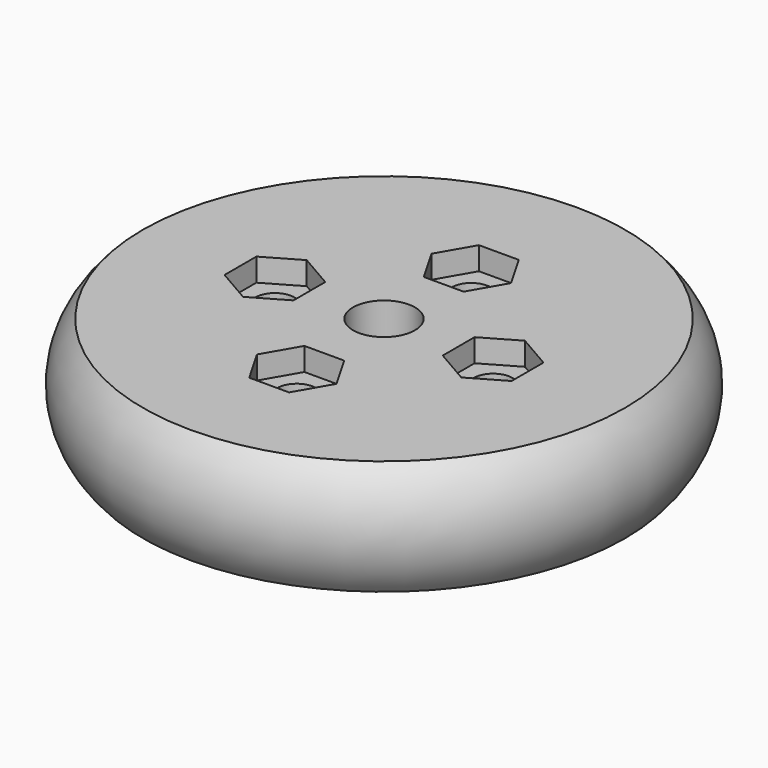
from build123d import *

# Parameters (mm, degrees)
SKETCH001_R        = 1.7
POCKET_DEPTH       = 136.636862
POCKET_DEPTH_BACK  = 136.636862
POCKET001_DEPTH    = 133.636862
POLARPATTERN_COUNT = 4


with BuildPart() as part:
    # Sketch → Revolution (revolve)
    with BuildSketch(Plane.XZ):
        with BuildLine():
            Line((14, -5), (14, -3))
            ThreePointArc((14, -3), (13.707107, -2.292893), (13, -2))
            Line((13, -2), (2.7, -2))
            Line((2.7, -2), (2.7, 5))
            Line((2.7, 5), (21, 5))
            ThreePointArc((21, -5), (23, 0), (21, 5))
            Line((21, -5), (14, -5))
        make_face()
    revolve(axis=Axis((0, 0, 0), (0, 0, 1)))

    # Sketch001 → Pocket (cut, two sides)
    with BuildSketch(Plane(origin=(0, 9.5, 0), x_dir=(1, 0, 0), z_dir=(0, 0, 1))) as pocket_sk:
        Circle(SKETCH001_R)
    pocket = extrude(amount=-POCKET_DEPTH, mode=Mode.SUBTRACT) + extrude(pocket_sk.sketch, amount=POCKET_DEPTH_BACK, mode=Mode.SUBTRACT)

    # Sketch002 (on Sketch) → Pocket001 (cut, through all)
    with BuildSketch(Plane(origin=(0, 9.5, 3), x_dir=(1, 0, 0), z_dir=(0, 0, 1))):
        Polygon((1.732051, -3), (3.464102, 0), (1.732051, 3), (-1.732051, 3), (-3.464102, 0), (-1.732051, -3), align=None)
    pocket001 = extrude(amount=POCKET001_DEPTH, mode=Mode.SUBTRACT)

    # PolarPattern: Pocket, Pocket001 ×4 about axis
    polarpattern_axis = Axis((0, 0, 0), (0, 0, 1))
    for i in range(1, POLARPATTERN_COUNT):
        add(pocket.rotate(polarpattern_axis, i * 360 / POLARPATTERN_COUNT), mode=Mode.SUBTRACT)
        add(pocket001.rotate(polarpattern_axis, i * 360 / POLARPATTERN_COUNT), mode=Mode.SUBTRACT)


solid = part.part
